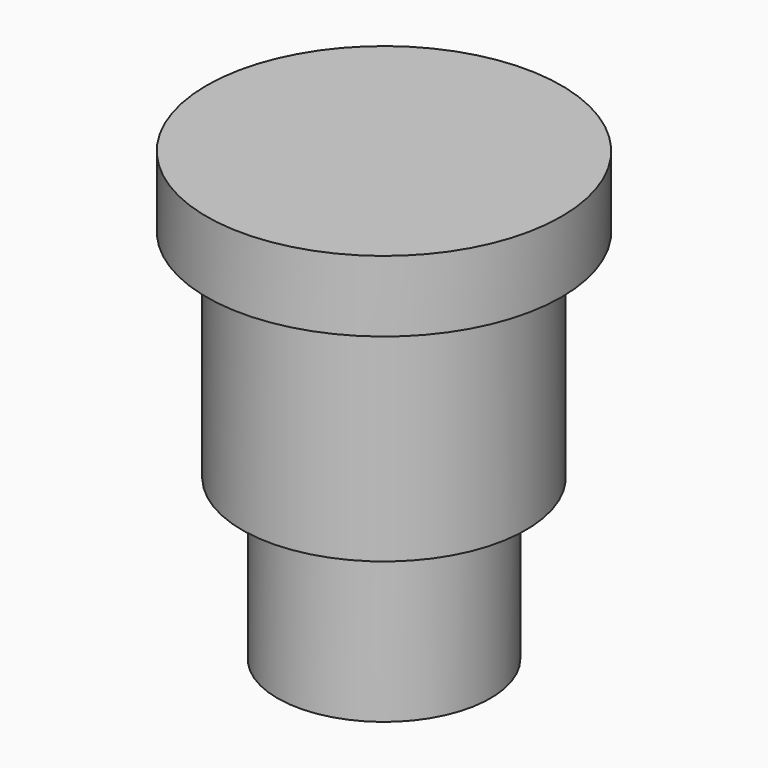
from build123d import *


with BuildPart() as f1:
    # F0 (on Front) → F1 (revolve)
    with BuildSketch(Plane.XZ):
        Polygon((0, 6.1), (0, 8.1), (-5, 8.1), (-5, 6.1), (-4, 6.1), align=None)
        Polygon((0, 0), (0, 6.1), (-4, 6.1), (-4, 0), (-3, 0), align=None)
        Polygon((0, -0.5), (0, 0), (-3, 0), (-3, -4.5), (-1, -4.5), (-1, -1.5), (-0.25, -0.5), align=None)
    revolve(axis=Axis((0, 0, 3.8), (0, 0, -1)))


solid = f1.part
